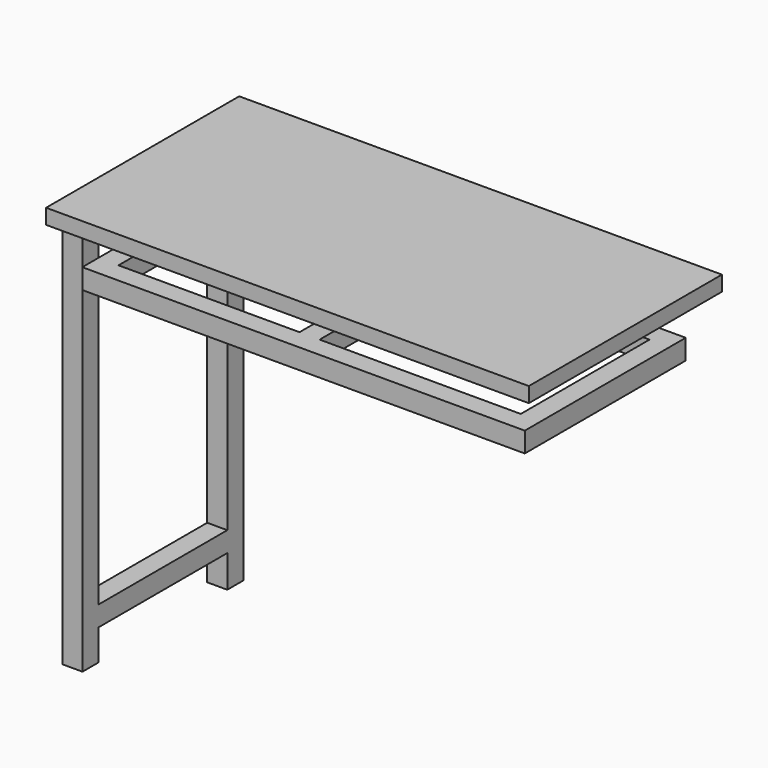
from build123d import *

# Parameters (mm, degrees)
F0_W     = 406.4
F0_H     = 50.8
F1_DEPTH = 50.8
F2_W     = 1219.2
F2_H     = 38.1
F3_DEPTH = 609.6
F4_W     = 50.8
F4_H     = 50.8
F4_W_2   = 508
F4_H_2   = 406.4
F4_W_3   = 457.2
F5_DEPTH = 50.8


with BuildPart() as f1:
    # F0 (on Right) → F1 (new body)
    with BuildSketch(Plane.YZ):
        Polygon((66.5393716931, -930.3252109869), (66.5393716931, 85.6747890131), (15.7393716931, 85.6747890131), (15.7393716931, -797.8733963936), (15.7393716931, -848.6733963936), (15.7393716931, -930.3252109869), align=None)
        with Locations((-187.4606283069, -823.2733963936)):
            Rectangle(F0_W, F0_H)
        Polygon((-390.6606283069, -848.6733963936), (-390.6606283069, -797.8733963936), (-390.6606283069, 89.2663273811), (-441.4606283069, 89.2663273811), (-441.4606283069, -926.7336726189), (-390.6606283069, -926.7336726189), align=None)
    extrude(amount=F1_DEPTH)


with BuildPart() as f3:
    # F2 (on Front) → F3 (new body)
    with BuildSketch(Plane.XZ):
        with Locations((702.9868088187, 168.0535152555)):
            Rectangle(F2_W, F2_H)
    extrude(amount=F3_DEPTH)


with BuildPart() as f5:
    # F4 (on Top) → F5 (new body)
    with BuildSketch(Plane.XY):
        with Locations((1236.3868088187, -76.2)):
            Rectangle(F4_W, F4_H)
        with Locations((956.9868088187, -76.2)):
            Rectangle(F4_W_2, F4_H)
        with Locations((1236.3868088187, -304.8)):
            Rectangle(F4_W, F4_H_2)
        with Locations((677.5868088187, -76.2)):
            Rectangle(F4_W, F4_H)
        with Locations((1236.3868088187, -533.4)):
            Rectangle(F4_W, F4_H)
        with Locations((423.5868088187, -76.2)):
            Rectangle(F4_W_3, F4_H)
        with Locations((956.9868088187, -533.4)):
            Rectangle(F4_W_2, F4_H)
        with Locations((169.5868088187, -76.2)):
            Rectangle(F4_W, F4_H)
        with Locations((677.5868088187, -533.4)):
            Rectangle(F4_W, F4_H)
        with Locations((169.5868088187, -304.8)):
            Rectangle(F4_W, F4_H_2)
        with Locations((423.5868088187, -533.4)):
            Rectangle(F4_W_3, F4_H)
        with Locations((169.5868088187, -533.4)):
            Rectangle(F4_W, F4_H)
        with Locations((677.5868088187, -304.8)):
            Rectangle(F4_W, F4_H_2)
    extrude(amount=F5_DEPTH)


solid = Compound([f1.part, f3.part, f5.part])
